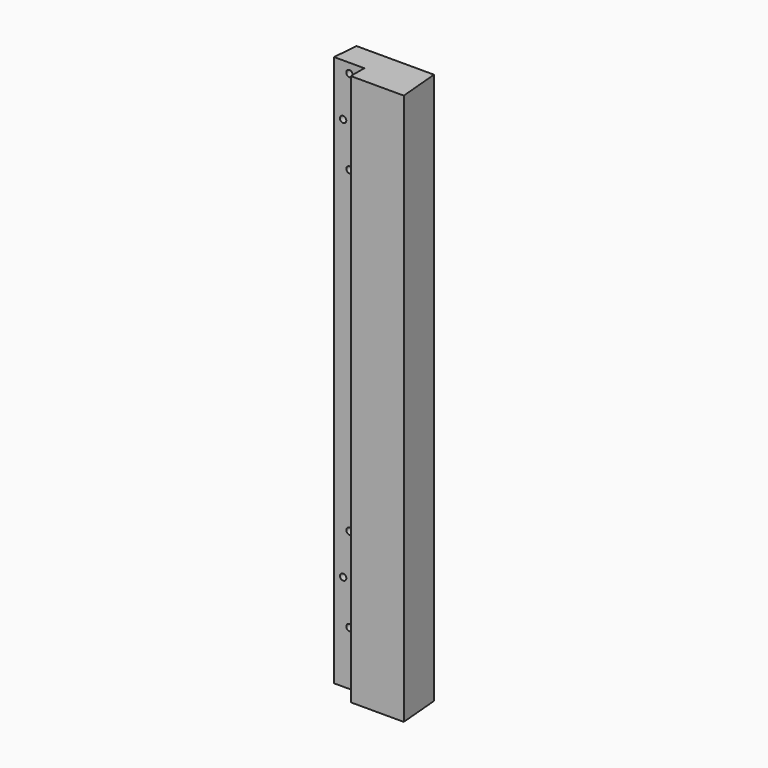
from build123d import *

# Parameters (mm, degrees)
F1_DEPTH = 260
F3_D     = 3
F3_DEPTH = 10
F3_START = 8
F3_TIP   = 0.9012909285


with BuildPart() as f1:
    # F0 (on Top) → F1 (new body)
    with BuildSketch(Plane.XY):
        Polygon((1.7497732705, 20), (0.6999093082, 8), (15, 8), (15, 0), (40, 0), (38.2502267295, 20), align=None)
    extrude(amount=F1_DEPTH)

    # F3
    # its depths count from where the whole tool has entered the part; down to there all is cleared
    with Locations(Plane.XZ.offset(-F3_START)):
        with Locations((8, 255.5), (5, 235.5), (8, 215.5), (8, 65.5), (5, 45.5), (8, 25.5)):
            Hole(F3_D / 2, depth=F3_DEPTH)
            with Locations((0, 0, -(F3_DEPTH + F3_TIP / 2))):  # 118° drill point
                Cone(0, F3_D / 2, F3_TIP, mode=Mode.SUBTRACT)


solid = f1.part
